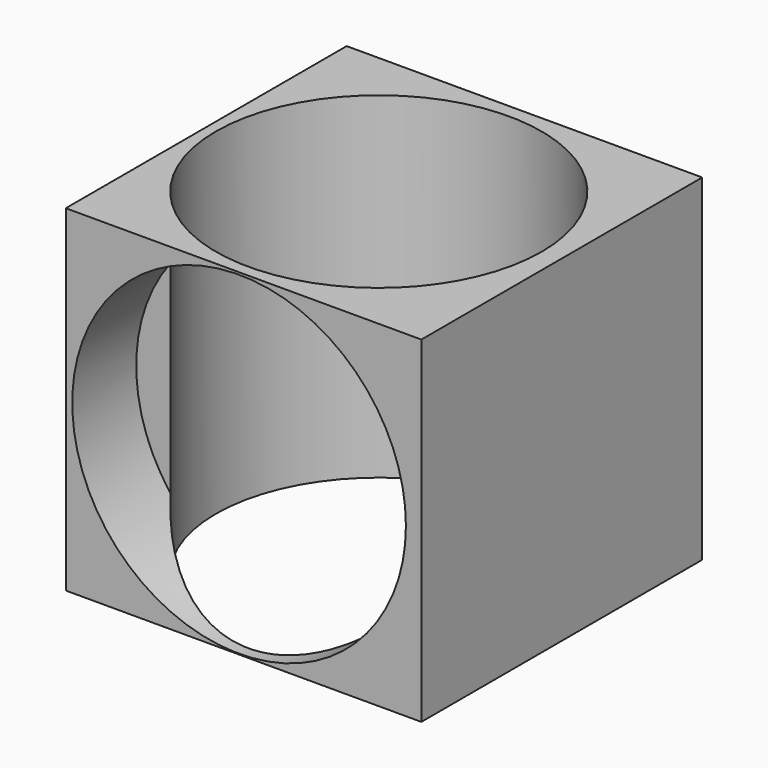
from build123d import *

# Parameters (mm, degrees)
F0_W     = 112.955294
F0_H     = 111.52909
F1_DEPTH = 93.472
F2_W     = 112.955294
F2_H     = 111.52909
F3_DEPTH = 13.462
F4_R     = 51.751528
F5_DEPTH = 131.318
F6_R     = 52.996706
F7_DEPTH = 25.4


with BuildPart() as f1:
    # F0 (on Top) → F1 (new body)
    with BuildSketch(Plane.XY):
        with Locations((1.426205, 0.285242)):
            Rectangle(F0_W, F0_H)
    extrude(amount=F1_DEPTH)

    # F2 (on face) → F3 (join)
    with BuildSketch(Plane.XY.offset(93.472)):
        with Locations((1.426205, 0.285242)):
            Rectangle(F2_W, F2_H)
    extrude(amount=F3_DEPTH)

    # F4 (on face) → F5 (cut)
    with BuildSketch(Plane.XY.offset(106.934)):
        Circle(F4_R)
    extrude(amount=-F5_DEPTH, mode=Mode.SUBTRACT)

    # F6 (on face) → F7 (cut)
    with BuildSketch(Plane.XZ.offset(55.479303)):
        with Locations((0, 53.242445)):
            Circle(F6_R)
    extrude(amount=-F7_DEPTH, mode=Mode.SUBTRACT)


solid = f1.part
